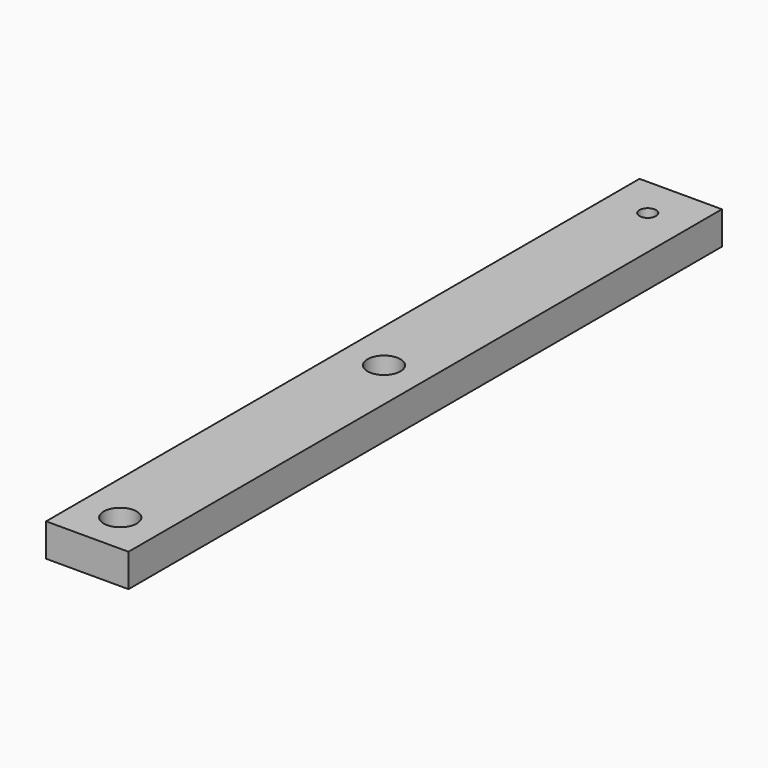
from build123d import *

# Parameters (mm, degrees)
F0_W     = 10
F0_H     = 90
F0_R     = 2
F0_R_2   = 1
F1_DEPTH = 2


with BuildPart() as f1:
    # F0 (on Top) → F1 (new body, symmetric)
    with BuildSketch(Plane.XY):
        with Locations((0, 40)):
            Rectangle(F0_W, F0_H)
        Circle(F0_R, mode=Mode.SUBTRACT)
        with Locations((0, 40)):
            Circle(F0_R, mode=Mode.SUBTRACT)
        with Locations((0, 80)):
            Circle(F0_R_2, mode=Mode.SUBTRACT)
    extrude(amount=F1_DEPTH, both=True)


solid = f1.part
